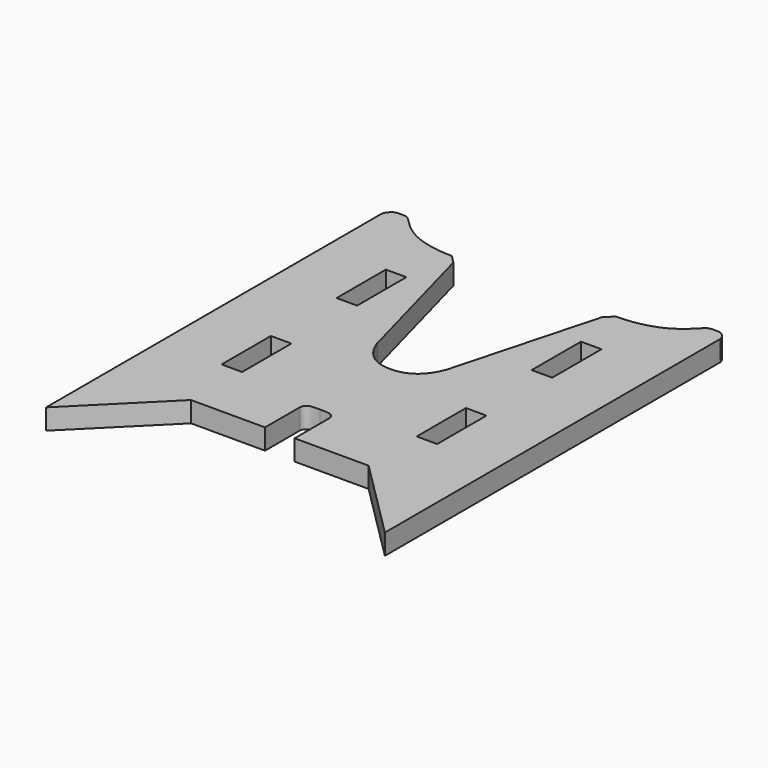
from build123d import *

# Parameters (mm, degrees)
F0_W     = 25.4
F0_H     = 76.2
F1_DEPTH = 25.4


with BuildPart() as f1:
    # F0 (on Top) → F1 (new body)
    with BuildSketch(Plane.XY):
        with BuildLine():
            Line((419.1, 0), (419.1, 29.1582643986))
            Line((419.1, 29.1582643986), (419.1, 519.0247278661))
            add(Edge.make_bspline(
                [(419.1, 519.0247278661), (418.8567063371, 520.01834504), (418.2676027999, 521.8341670889), (416.1729888065, 524.9092991331), (413.99397965, 527.3207803265), (410.3523343364, 529.6624772185), (404.4323099276, 529.6889871882), (398.2651028435, 529.7413733664), (393.9426766977, 527.9962477103), (387.0331863222, 521.0128293481), (378.8460118264, 512.5709480638), (364.4918733569, 503.1770625677), (352.2650052737, 498.2571654564), (335.3010704369, 493.9072733129), (323.4884756462, 492.6970167361), (315.1468564664, 492.4315109141), (310.9324177345, 492.2973693118)],
                knots=[0, 0, 0, 0, 0.0429300681, 0.0905584934, 0.1357841716, 0.1862979961, 0.247389759, 0.3090643341, 0.3617620414, 0.4382226544, 0.5260544206, 0.6284948022, 0.7211860438, 0.8248180391, 0.9118377504, 1, 1, 1, 1], degree=3))
            Line((310.9324177345, 492.2973693118), (301.2919773897, 482.4296713576))
            Line((301.2919773897, 482.4296713576), (253.1678577503, 304.6845675215))
            add(Edge.make_bspline(
                [(253.1678577503, 304.6845675215), (249.5947679123, 294.8969484076), (240.1058229426, 270.3486711487), (209.55, 270.3486711487)],
                knots=[0, 0, 0, 0, 55.5110015623, 55.5110015623, 55.5110015623, 55.5110015623], degree=3))
            add(Edge.make_bspline(
                [(165.9321422497, 304.6845675215), (169.5052320877, 294.8969484076), (178.9941770574, 270.3486711487), (209.55, 270.3486711487)],
                knots=[0, 0, 0, 0, 55.5110015623, 55.5110015623, 55.5110015623, 55.5110015623], degree=3))
            Line((165.9321422497, 304.6845675215), (117.8080226103, 482.4296713576))
            Line((117.8080226103, 482.4296713576), (108.1675822655, 492.2973693118))
            add(Edge.make_bspline(
                [(0, 519.0247278661), (0.2432936629, 520.01834504), (0.8323972001, 521.8341670889), (2.9270111935, 524.9092991331), (5.10602035, 527.3207803265), (8.7476656636, 529.6624772185), (14.6676900724, 529.6889871882), (20.8348971565, 529.7413733664), (25.1573233023, 527.9962477103), (32.0668136778, 521.0128293481), (40.2539881736, 512.5709480638), (54.6081266431, 503.1770625677), (66.8349947263, 498.2571654564), (83.7989295631, 493.9072733129), (95.6115243538, 492.6970167361), (103.9531435336, 492.4315109141), (108.1675822655, 492.2973693118)],
                knots=[0, 0, 0, 0, 0.0429300681, 0.0905584934, 0.1357841716, 0.1862979961, 0.247389759, 0.3090643341, 0.3617620414, 0.4382226544, 0.5260544206, 0.6284948022, 0.7211860438, 0.8248180391, 0.9118377504, 1, 1, 1, 1], degree=3))
            Line((0, 519.0247278661), (0, 29.1582643986))
            Line((0, 29.1582643986), (0, 0))
            Line((0, 0), (99.6925341323, 99.4598194957))
            Line((99.6925341323, 99.4598194957), (181.0018675759, 99.4598194957))
            Line((181.0018675759, 99.4598194957), (191.2581260124, 99.4598194957))
            Line((191.2581260124, 99.4598194957), (191.2581260124, 153.8446743121))
            add(Edge.make_bspline(
                [(191.2581260124, 153.8446743121), (191.2581260124, 154.6195055676), (191.862677392, 156.4935697657), (193.6279254023, 158.6398084617), (195.90506772, 160.5598117903), (199.6578135601, 161.9283251833), (205.7796629071, 161.8224699323), (209.55, 161.7788404983)],
                knots=[0, 0, 0, 0, 0.1602260225, 0.3263351359, 0.4928279093, 0.6846095993, 1, 1, 1, 1], degree=3))
            add(Edge.make_bspline(
                [(227.8418739876, 153.8446743121), (227.8418739876, 154.6195055676), (227.237322608, 156.4935697657), (225.4720745977, 158.6398084617), (223.19493228, 160.5598117903), (219.4421864399, 161.9283251833), (213.3203370929, 161.8224699323), (209.55, 161.7788404983)],
                knots=[0, 0, 0, 0, 0.1602260225, 0.3263351359, 0.4928279093, 0.6846095993, 1, 1, 1, 1], degree=3))
            Line((227.8418739876, 153.8446743121), (227.8418739876, 99.4598194957))
            Line((227.8418739876, 99.4598194957), (238.0981324241, 99.4598194957))
            Line((238.0981324241, 99.4598194957), (319.4074658677, 99.4598194957))
            Line((319.4074658677, 99.4598194957), (419.1, 0))
        make_face()
        with Locations((88.9, 214.2247278661)):
            Rectangle(F0_W, F0_H, mode=Mode.SUBTRACT)
        with Locations((330.2, 214.2247278661)):
            Rectangle(F0_W, F0_H, mode=Mode.SUBTRACT)
        with Locations((88.9, 392.0247278661)):
            Rectangle(F0_W, F0_H, mode=Mode.SUBTRACT)
        with Locations((330.2, 392.0247278661)):
            Rectangle(F0_W, F0_H, mode=Mode.SUBTRACT)
    extrude(amount=F1_DEPTH)


solid = f1.part
